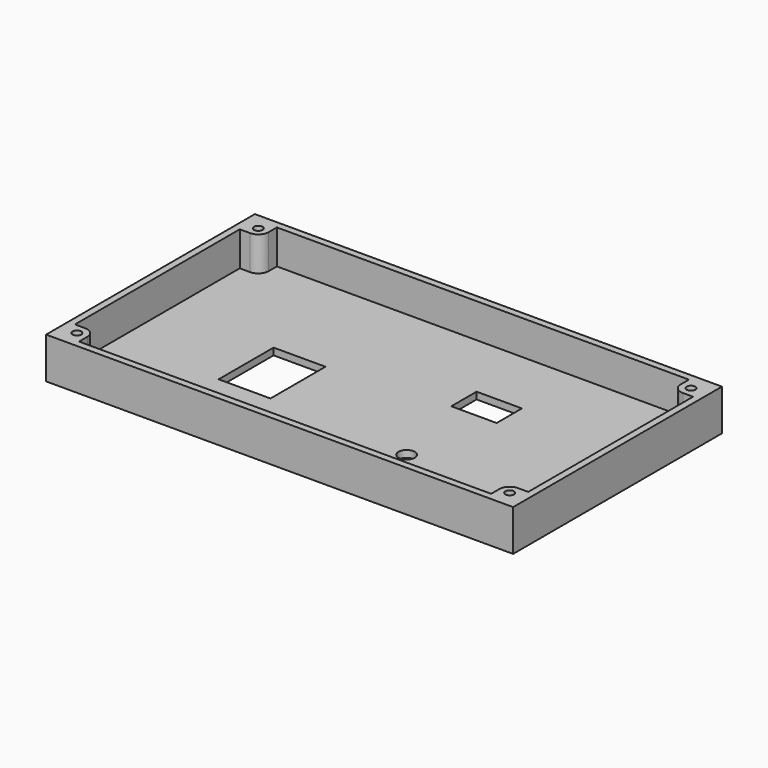
from build123d import *

# Parameters (mm, degrees)
SKETCH_W        = 136
SKETCH_H        = 76
PAD_DEPTH       = 2
SKETCH001_W     = 136
SKETCH001_H     = 76
PAD001_DEPTH    = 10
SKETCH002_R     = 1.25
POCKET_DEPTH    = 13
SKETCH003_R     = 2.375
SKETCH003_W     = 15.1
SKETCH003_H     = 20
SKETCH003_W_2   = 13.2
SKETCH003_H_2   = 9.2
POCKET001_DEPTH = 3
FILLET_R        = 3


with BuildPart() as part:
    # Sketch → Pad (new body)
    with BuildSketch(Plane.XY):
        Rectangle(SKETCH_W, SKETCH_H)
    extrude(amount=PAD_DEPTH)

    # Sketch001 (on Face6 of Pad) → Pad001 (join)
    with BuildSketch(Plane.XY.offset(2)):
        Rectangle(SKETCH001_W, SKETCH001_H)
        Polygon((-60, 36), (60, 36), (60, 30), (66, 30), (66, -30), (60, -30), (60, -36), (-60, -36), (-60, -30), (-66, -30), (-66, 30), (-60, 30), align=None, mode=Mode.SUBTRACT)
    extrude(amount=PAD001_DEPTH)

    # Sketch002 (on Face9 of Pad001) → Pocket (cut)
    with BuildSketch(Plane.XY.offset(12)):
        with Locations((-63, 33)):
            Circle(SKETCH002_R)
        with Locations((-63, -33)):
            Circle(SKETCH002_R)
        with Locations((63, 33)):
            Circle(SKETCH002_R)
        with Locations((63, -33)):
            Circle(SKETCH002_R)
    extrude(amount=-POCKET_DEPTH, mode=Mode.SUBTRACT)

    # Sketch003 (on Face4 of Pocket) → Pocket001 (cut)
    with BuildSketch(Plane(origin=(0, 0, 0), x_dir=(1, 0, 0), z_dir=(0, 0, -1))):
        with Locations((21, 18)):
            Circle(SKETCH003_R)
        with Locations((-28.06, 5.68)):
            Rectangle(SKETCH003_W, SKETCH003_H)
        with Locations((20.6, -11.6)):
            Rectangle(SKETCH003_W_2, SKETCH003_H_2)
    extrude(amount=-POCKET001_DEPTH, mode=Mode.SUBTRACT)

    # Fillet
    fillet_edges = [part.edges().sort_by_distance(p)[0] for p in [
        (60, 30, 7),
        (-60, 30, 7),
        (60, -30, 7),
        (-60, -30, 7),
    ]]
    fillet(fillet_edges, radius=FILLET_R)


solid = part.part
